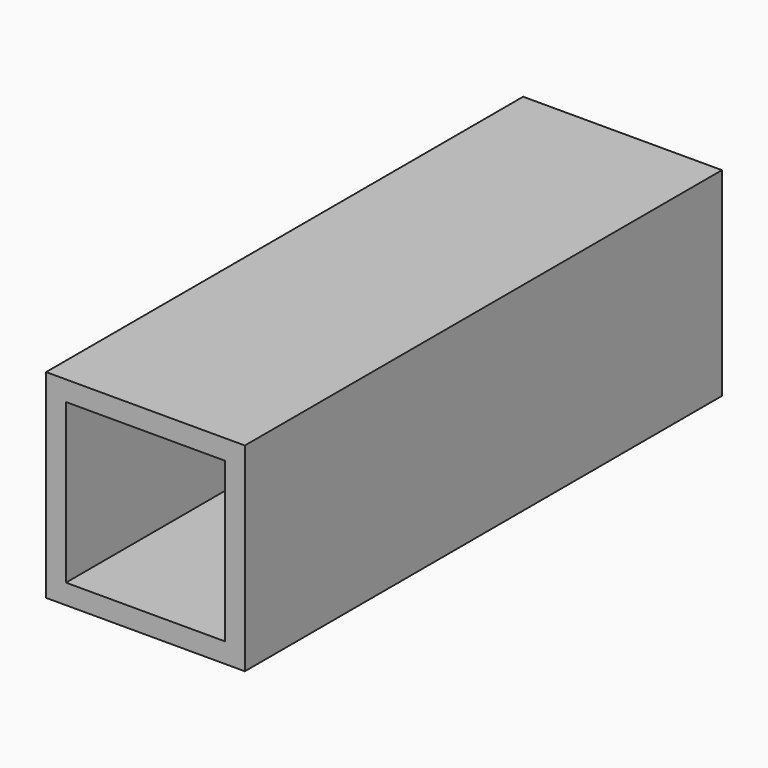
from build123d import *

# Parameters (mm, degrees)
F0_W     = 20
F0_H     = 20
F1_DEPTH = 60
F2_W     = 16
F2_H     = 16
F3_DEPTH = 25
F4_R     = 5
F5_DEPTH = 25
F6_W     = 16
F6_H     = 16
F7_DEPTH = 35


with BuildPart() as f1:
    # F0 (on Front) → F1 (new body)
    with BuildSketch(Plane.XZ):
        with Locations((-5.841036, 5.892225)):
            Rectangle(F0_W, F0_H)
    extrude(amount=F1_DEPTH)

    # F2 (on face) → F3 (cut)
    with BuildSketch(Plane(origin=(0, 0, 0), x_dir=(-1, 0, 0), z_dir=(0, 1, 0))):
        with Locations((5.841036, 5.892225)):
            Rectangle(F2_W, F2_H)
    extrude(amount=-F3_DEPTH, mode=Mode.SUBTRACT)

    # F4 (on face) → F5 (cut)
    with BuildSketch(Plane(origin=(0, 0, 13.892225), x_dir=(1, 0, 0), z_dir=(0, 0, -1))):
        with Locations((-5.841036, 12.5)):
            Circle(F4_R)
    extrude(amount=F5_DEPTH, mode=Mode.SUBTRACT)

    # F6 (on face) → F7 (cut, through all)
    with BuildSketch(Plane(origin=(0, -25, 0), x_dir=(-1, 0, 0), z_dir=(0, 1, 0))):
        with Locations((5.841036, 5.892225)):
            Rectangle(F6_W, F6_H)
    extrude(amount=-F7_DEPTH, mode=Mode.SUBTRACT)


solid = f1.part
